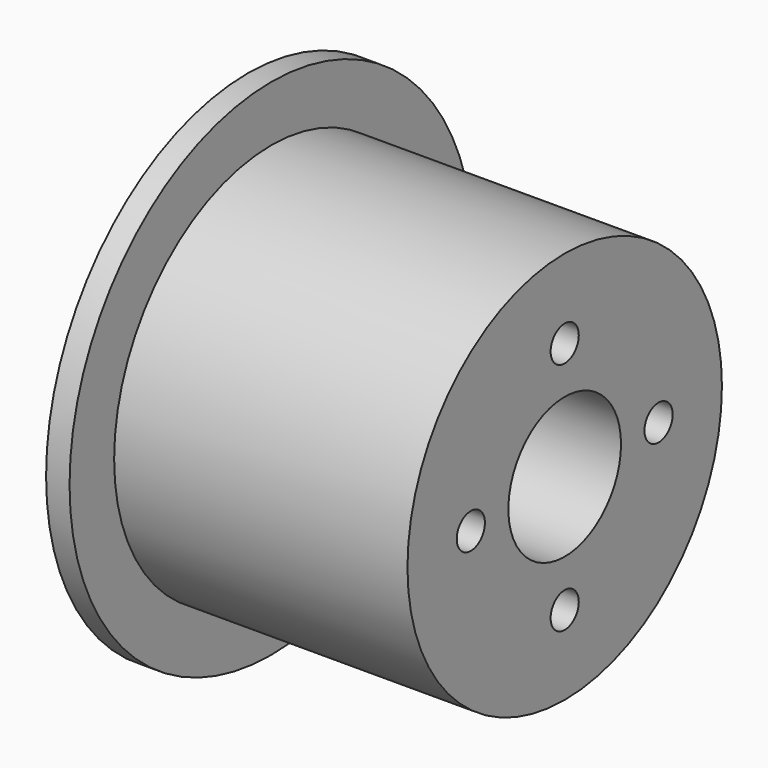
from build123d import *

# Parameters (mm, degrees)
F0_R     = 16.75
F0_R_2   = 1.5
F0_R_3   = 6
F1_DEPTH = 25
F0_R_4   = 21.5
F2_DEPTH = 2


with BuildPart() as f1:
    # F0 (on Right) → F1 (new body)
    with BuildSketch(Plane.YZ):
        Circle(F0_R)
        with Locations((0, -10)):
            Circle(F0_R_2, mode=Mode.SUBTRACT)
        with Locations((-10, 0)):
            Circle(F0_R_2, mode=Mode.SUBTRACT)
        Circle(F0_R_3, mode=Mode.SUBTRACT)
        with Locations((10, 0)):
            Circle(F0_R_2, mode=Mode.SUBTRACT)
        with Locations((0, 10)):
            Circle(F0_R_2, mode=Mode.SUBTRACT)
    extrude(amount=F1_DEPTH)

    # F0 (on Right) → F2 (join)
    with BuildSketch(Plane.YZ):
        Circle(F0_R_4)
        Circle(F0_R, mode=Mode.SUBTRACT)
        Circle(F0_R)
        with Locations((0, -10)):
            Circle(F0_R_2, mode=Mode.SUBTRACT)
        with Locations((-10, 0)):
            Circle(F0_R_2, mode=Mode.SUBTRACT)
        Circle(F0_R_3, mode=Mode.SUBTRACT)
        with Locations((10, 0)):
            Circle(F0_R_2, mode=Mode.SUBTRACT)
        with Locations((0, 10)):
            Circle(F0_R_2, mode=Mode.SUBTRACT)
    extrude(amount=-F2_DEPTH)


solid = f1.part
